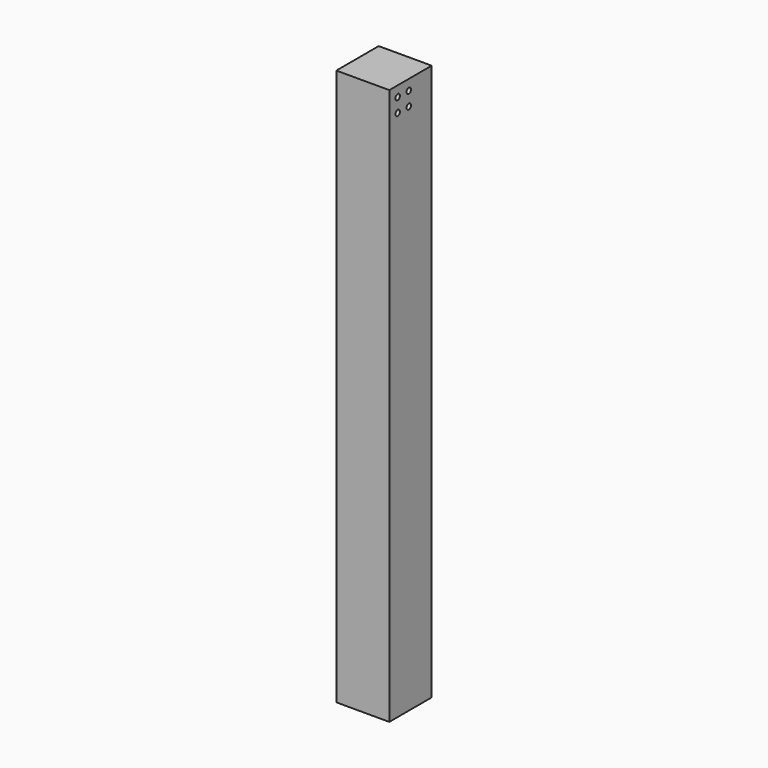
from build123d import *

# Parameters (mm, degrees)
F0_W     = 76.2
F0_H     = 76.2
F1_DEPTH = 800
F2_R     = 4
F3_DEPTH = 25
F4_R     = 4
F5_DEPTH = 25


with BuildPart() as f1:
    # F0 (on Top) → F1 (new body)
    with BuildSketch(Plane.XY):
        Rectangle(F0_W, F0_H)
    extrude(amount=-F1_DEPTH)

    # F2 (on face) → F3 (cut)
    with BuildSketch(Plane.YZ.offset(38.1)):
        with Locations((-23.016181, -15)):
            Circle(F2_R)
        with Locations((-3.016181, -15)):
            Circle(F2_R)
        with Locations((-3.016181, -35)):
            Circle(F2_R)
        with Locations((-23.016181, -35)):
            Circle(F2_R)
    extrude(amount=-F3_DEPTH, mode=Mode.SUBTRACT)

    # F4 (on face) → F5 (cut)
    with BuildSketch(Plane(origin=(0, 38.1, 0), x_dir=(-1, 0, 0), z_dir=(0, 1, 0))):
        with Locations((3.1, -15)):
            Circle(F4_R)
        with Locations((23.1, -15)):
            Circle(F4_R)
        with Locations((3.1, -35)):
            Circle(F4_R)
        with Locations((23.1, -35)):
            Circle(F4_R)
    extrude(amount=-F5_DEPTH, mode=Mode.SUBTRACT)


solid = f1.part
